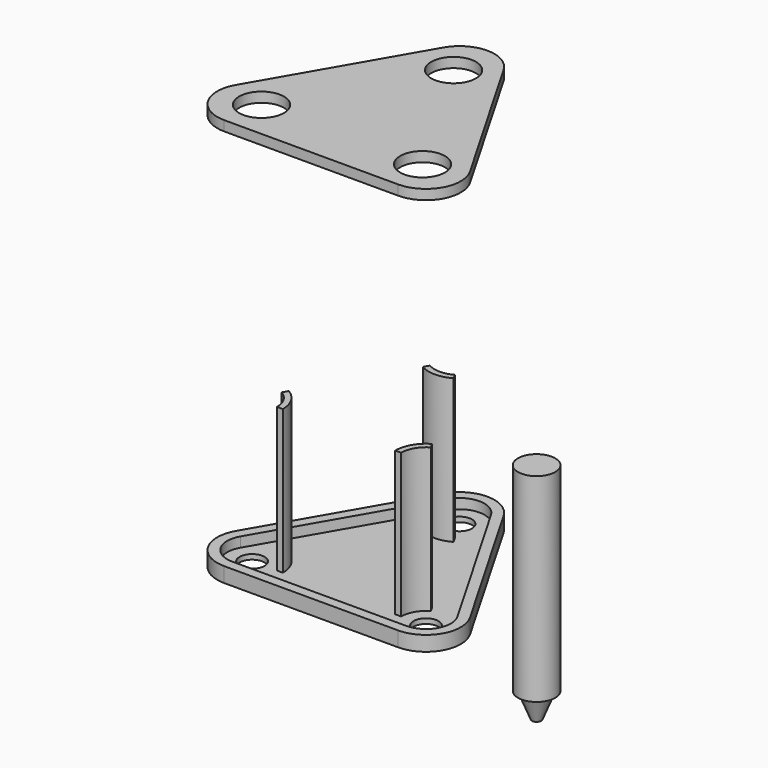
from build123d import *

# Parameters (mm, degrees)
F1_DEPTH = 7.62
F2_DEPTH = 76.2
F0_R     = 6.35
F3_DEPTH = 2.54
F7_R     = 11.43
F8_DEPTH = 5.08


with BuildPart() as f1:
    # F0 (on Top) → F1 (new body)
    with BuildSketch(Plane.XY):
        with BuildLine():
            Line((59.8479316793, 21.59), (15.3979316793, 98.5796583964))
            ThreePointArc((15.3979316793, 98.5796583964), (0, 107.4696583964), (-15.3979316793, 98.5796583964))
            Line((-15.3979316793, 98.5796583964), (-59.8479316793, 21.59))
            ThreePointArc((-59.8479316793, 21.59), (-59.8479316793, 3.81), (-44.45, -5.08))
            Line((-44.45, -5.08), (44.45, -5.08))
            ThreePointArc((44.45, -5.08), (59.8479316793, 3.81), (59.8479316793, 21.59))
        make_face()
        with BuildLine():
            Line((-55.4485226281, 19.05), (-10.9985226281, 96.0396583964))
            ThreePointArc((-10.9985226281, 96.0396583964), (0, 102.3896583964), (10.9985226281, 96.0396583964))
            Line((10.9985226281, 96.0396583964), (55.4485226281, 19.05))
            ThreePointArc((55.4485226281, 19.05), (55.4485226281, 6.35), (44.45, 0))
            Line((44.45, 0), (-44.45, 0))
            ThreePointArc((-44.45, 0), (-55.4485226281, 6.35), (-55.4485226281, 19.05))
        make_face(mode=Mode.SUBTRACT)
    extrude(amount=F1_DEPTH)



with BuildPart() as f2:
    # F0 (on Top) → F2 (new body)
    with BuildSketch(Plane.XY):
        with BuildLine():
            ThreePointArc((6.35, 78.6911357684), (0, 76.9896583964), (-6.35, 78.6911357684))
            Line((-6.35, 78.6911357684), (-7.874, 76.0514903376))
            ThreePointArc((-7.874, 76.0514903376), (0, 73.9416583964), (7.874, 76.0514903376))
            Line((7.874, 76.0514903376), (6.35, 78.6911357684))
        make_face()
    extrude(amount=F2_DEPTH)


with BuildPart() as f2b:
    # F0 (on Top) → F2, piece 2 (new body)
    with BuildSketch(Plane.XY):
        with BuildLine():
            Line((-36.576, 26.3381680588), (-38.1, 23.6985226281))
            ThreePointArc((-38.1, 23.6985226281), (-33.4514773719, 19.05), (-31.75, 12.7))
            Line((-31.75, 12.7), (-28.702, 12.7))
            ThreePointArc((-28.702, 12.7), (-30.8118319412, 20.574), (-36.576, 26.3381680588))
        make_face()
    extrude(amount=F2_DEPTH)


with BuildPart() as f2c:
    # F0 (on Top) → F2, piece 3 (new body)
    with BuildSketch(Plane.XY):
        with BuildLine():
            ThreePointArc((31.75, 12.7), (33.4514773719, 19.05), (38.1, 23.6985226281))
            Line((38.1, 23.6985226281), (36.576, 26.3381680588))
            ThreePointArc((36.576, 26.3381680588), (30.8118319412, 20.574), (28.702, 12.7))
            Line((28.702, 12.7), (31.75, 12.7))
        make_face()
    extrude(amount=F2_DEPTH)


with BuildPart() as f1_1:
    add(f1.part)

    add(f2.part)  # F3 merges F2

    add(f2b.part)  # F3 merges F2b

    add(f2c.part)  # F3 merges F2c
    # F0 (on Top) → F3 (join)
    with BuildSketch(Plane.XY):
        with BuildLine():
            ThreePointArc((10.9985226281, 96.0396583964), (0, 102.3896583964), (-10.9985226281, 96.0396583964))
            Line((-10.9985226281, 96.0396583964), (-55.4485226281, 19.05))
            ThreePointArc((-55.4485226281, 19.05), (-55.4485226281, 6.35), (-44.45, 0))
            Line((-44.45, 0), (44.45, 0))
            ThreePointArc((44.45, 0), (55.4485226281, 6.35), (55.4485226281, 19.05))
            Line((55.4485226281, 19.05), (10.9985226281, 96.0396583964))
        make_face()
        with Locations((-44.45, 12.7)):
            Circle(F0_R, mode=Mode.SUBTRACT)
        with BuildLine():
            ThreePointArc((-31.75, 12.7), (-33.4514773719, 19.05), (-38.1, 23.6985226281))
            Line((-38.1, 23.6985226281), (-36.576, 26.3381680588))
            ThreePointArc((-36.576, 26.3381680588), (-30.8118319412, 20.574), (-28.702, 12.7))
            Line((-28.702, 12.7), (-31.75, 12.7))
        make_face(mode=Mode.SUBTRACT)
        with Locations((44.45, 12.7)):
            Circle(F0_R, mode=Mode.SUBTRACT)
        with BuildLine():
            Line((36.576, 26.3381680588), (38.1, 23.6985226281))
            ThreePointArc((38.1, 23.6985226281), (33.4514773719, 19.05), (31.75, 12.7))
            Line((31.75, 12.7), (28.702, 12.7))
            ThreePointArc((28.702, 12.7), (30.8118319412, 20.574), (36.576, 26.3381680588))
        make_face(mode=Mode.SUBTRACT)
        with BuildLine():
            Line((-7.874, 76.0514903376), (-6.35, 78.6911357684))
            ThreePointArc((-6.35, 78.6911357684), (0, 76.9896583964), (6.35, 78.6911357684))
            Line((6.35, 78.6911357684), (7.874, 76.0514903376))
            ThreePointArc((7.874, 76.0514903376), (0, 73.9416583964), (-7.874, 76.0514903376))
        make_face(mode=Mode.SUBTRACT)
        with Locations((0, 89.6896583964)):
            Circle(F0_R, mode=Mode.SUBTRACT)
    extrude(amount=F3_DEPTH)


with BuildPart() as f5:
    # F4 (on Front) → F5 (revolve)
    with BuildSketch(Plane.XZ):
        Polygon((101.6, 101.6), (101.6, 0), (103.632, 0), (108.7631330681, -12.7), (111.125, -12.7), (111.125, 101.6), align=None)
    revolve(axis=Axis((111.125, 0, 36.0349300282), (0, 0, 1)))


with BuildPart() as f8:
    # F7 (on offset) → F8 (new body)
    with BuildSketch(Plane.XY.offset(203.2)):
        with BuildLine():
            ThreePointArc((15.3979316793, 98.5796583964), (0, 107.4696583964), (-15.3979316793, 98.5796583964))
            Line((-15.3979316793, 98.5796583964), (-59.8479316793, 21.59))
            ThreePointArc((-59.8479316793, 21.59), (-59.8479316793, 3.81), (-44.45, -5.08))
            Line((-44.45, -5.08), (44.45, -5.08))
            ThreePointArc((44.45, -5.08), (59.8479316793, 3.81), (59.8479316793, 21.59))
            Line((59.8479316793, 21.59), (15.3979316793, 98.5796583964))
        make_face()
        with Locations((-41.1504432116, 14.605)):
            Circle(F7_R, mode=Mode.SUBTRACT)
        with Locations((41.1504432116, 14.605)):
            Circle(F7_R, mode=Mode.SUBTRACT)
        with Locations((0, 85.8796583964)):
            Circle(F7_R, mode=Mode.SUBTRACT)
    extrude(amount=F8_DEPTH)


solid = Compound([f1_1.part, f5.part, f8.part])
